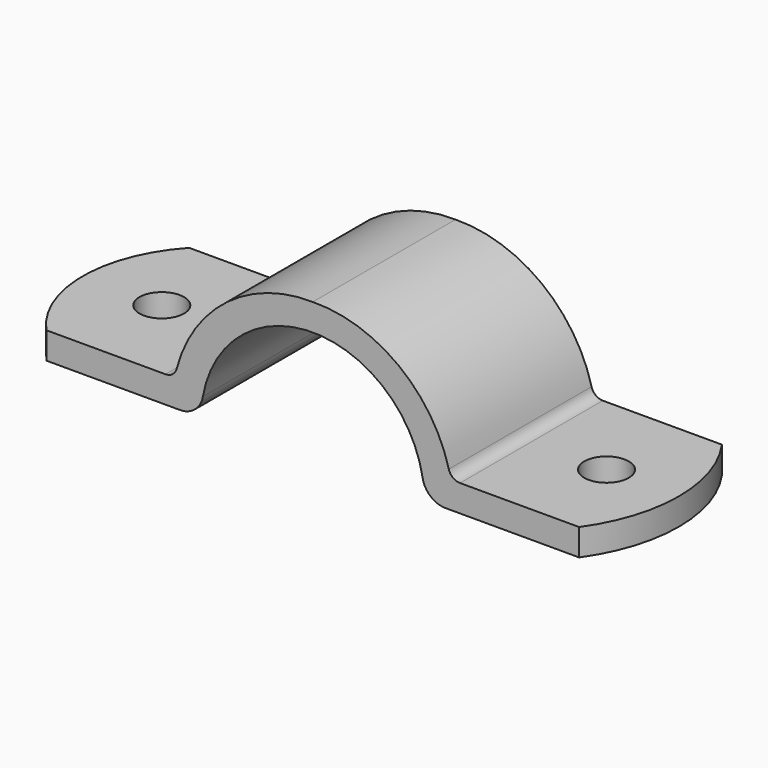
from build123d import *

# Parameters (mm, degrees)
F1_DEPTH = 10
F2_R     = 2.5
F3_DEPTH = 25
F5_DEPTH = 3
F7_DEPTH = 3


with BuildPart() as f1:
    # F0 (on Front) → F1 (new body, symmetric)
    with BuildSketch(Plane.XZ):
        with BuildLine():
            ThreePointArc((-12.3133069376, 2.1523178808), (0, 12.5), (12.3133069376, 2.1523178808))
            ThreePointArc((12.3133069376, 2.1523178808), (13.2017484895, 0.6095259974), (14.8744747806, 0))
            Line((14.8744747806, 0), (29.85, 0))
            Line((29.85, 0), (29.85, 3))
            Line((29.85, 3), (16.503, 3))
            ThreePointArc((16.503, 3), (15.7100109406, 3.2698697404), (15.2462584222, 3.9674333051))
            ThreePointArc((15.2462584222, 3.9674333051), (9.6127418909, 12.3640200256), (0, 15.5))
            ThreePointArc((0, 15.5), (-9.6127418909, 12.3640200256), (-15.2462584222, 3.9674333051))
            ThreePointArc((-15.2462584222, 3.9674333051), (-15.7100109406, 3.2698697404), (-16.503, 3))
            Line((-16.503, 3), (-29.85, 3))
            Line((-29.85, 3), (-29.85, 0))
            Line((-29.85, 0), (-14.8744747806, 0))
            ThreePointArc((-14.8744747806, 0), (-13.2017484895, 0.6095259974), (-12.3133069376, 2.1523178808))
        make_face()
    extrude(amount=F1_DEPTH, both=True)

    # F2 (on face) → F3 (cut)
    with BuildSketch(Plane.XY.offset(3)):
        with Locations((24.92, 0)):
            Circle(F2_R)
        with Locations((-24.92, 0)):
            Circle(F2_R)
    extrude(amount=-F3_DEPTH, mode=Mode.SUBTRACT)

    # F4 (on face) → F5 (join)
    with BuildSketch(Plane.XY.offset(3)):
        with BuildLine():
            Line((-29.85, -10), (-29.85, 10))
            ThreePointArc((-29.85, 10), (-33.7754930507, 0), (-29.85, -10))
        make_face()
    extrude(amount=-F5_DEPTH)

    # F6 (on face) → F7 (join)
    with BuildSketch(Plane.XY.offset(3)):
        with BuildLine():
            Line((29.85, 10), (29.85, -10))
            ThreePointArc((29.85, -10), (33.0329889849, 0), (29.85, 10))
        make_face()
    extrude(amount=-F7_DEPTH)


solid = f1.part
